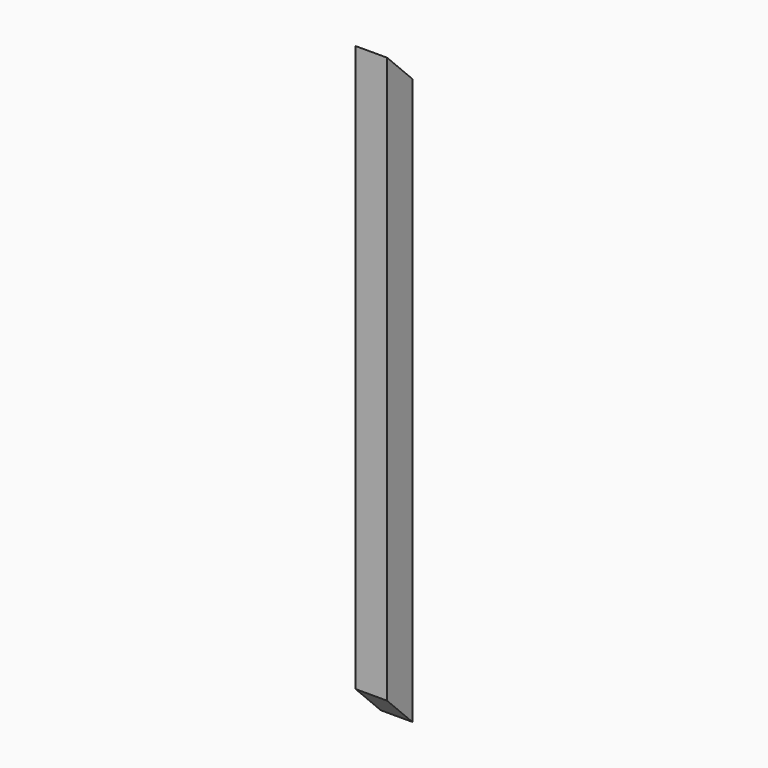
from build123d import *

# Parameters (mm, degrees)
F0_W          = 50
F0_H          = 50
F1_DEPTH      = 950
F3_DEPTH      = 25.001
F3_DEPTH_BACK = 25.001
F5_DEPTH      = 25.001
F5_DEPTH_BACK = 25.001


with BuildPart() as f1:
    # F0 (on Top) → F1 (new body)
    with BuildSketch(Plane.XY):
        Rectangle(F0_W, F0_H)
    extrude(amount=F1_DEPTH)

    # F2 (on Right) → F3 (cut, two sides)
    with BuildSketch(Plane.YZ) as f3_sk:
        Polygon((135.3058686236, 950), (-25, 950), (135.3058686236, 789.6941313764), align=None)
    extrude(amount=-F3_DEPTH, mode=Mode.SUBTRACT)
    extrude(f3_sk.sketch, amount=F3_DEPTH_BACK, mode=Mode.SUBTRACT)

    # F4 (on Right) → F5 (cut, two sides)
    with BuildSketch(Plane.YZ) as f5_sk:
        Polygon((-25, 0), (25, 0), (-25, 50), align=None)
    extrude(amount=-F5_DEPTH, mode=Mode.SUBTRACT)
    extrude(f5_sk.sketch, amount=F5_DEPTH_BACK, mode=Mode.SUBTRACT)


solid = f1.part
